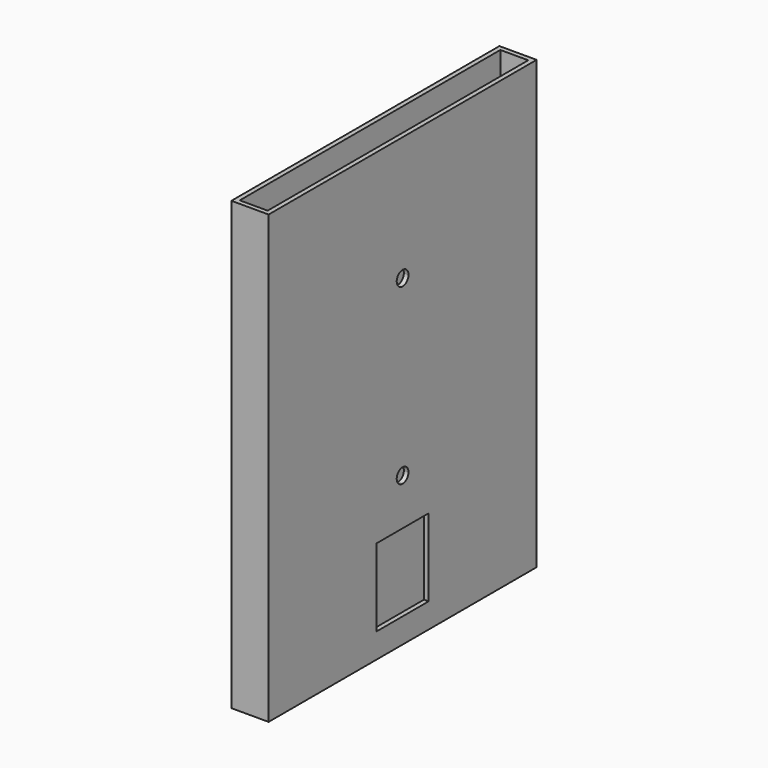
from build123d import *

# Parameters (mm, degrees)
F0_W     = 152.4
F0_H     = 1371.6
F0_W_2   = 114.3
F0_H_2   = 1333.5
F1_DEPTH = 1828.8
F2_W     = 133.35
F2_H     = 317.5
F3_DEPTH = 25.4


with BuildPart() as f1:
    # F0 (on Top) → F1 (new body)
    with BuildSketch(Plane.XY):
        Rectangle(F0_W, F0_H)
        Rectangle(F0_W_2, F0_H_2, mode=Mode.SUBTRACT)
    extrude(amount=F1_DEPTH)

    # F2 (on face) → F3 (cut)
    with BuildSketch(Plane.YZ.offset(76.2)):
        with BuildLine():
            ThreePointArc((30.1625, 1320.8), (21.328108, 1342.128108), (0, 1350.9625))
            ThreePointArc((0, 1350.9625), (-21.328108, 1299.471892), (30.1625, 1320.8))
        make_face()
        with BuildLine():
            ThreePointArc((30.1625, 609.6), (-21.328108, 630.928108), (0, 579.4375))
            ThreePointArc((0, 579.4375), (21.328108, 588.271892), (30.1625, 609.6))
        make_face()
        with Locations((-66.675, 260.35)):
            Rectangle(F2_W, F2_H)
        with Locations((66.675, 260.35)):
            Rectangle(F2_W, F2_H)
    extrude(amount=-F3_DEPTH, mode=Mode.SUBTRACT)


solid = f1.part
